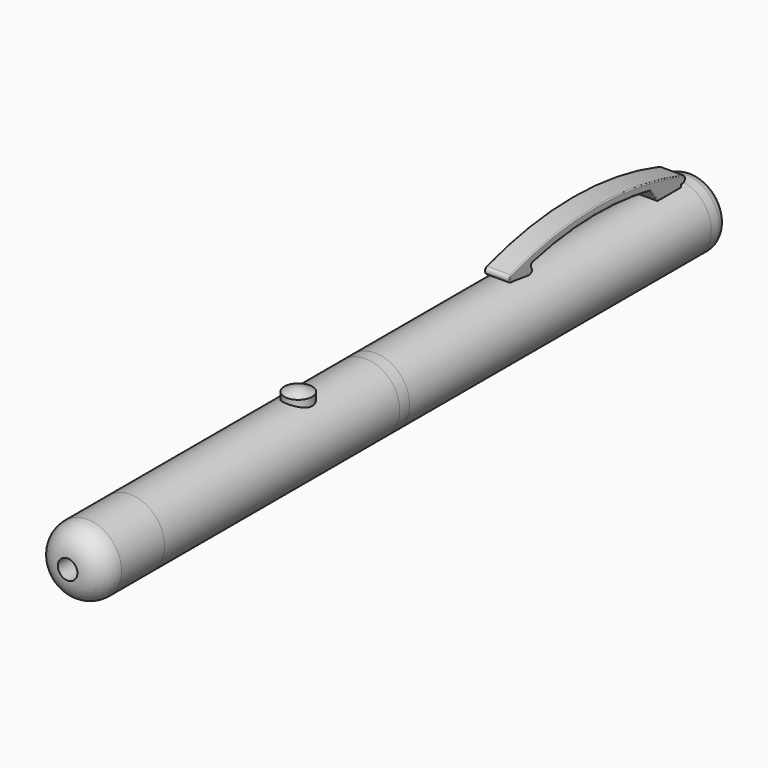
from build123d import *

# Parameters (mm, degrees)
F0_R           = 7
F1_DEPTH       = 4
F2_R           = 2
F3_DEPTH       = 77
F4_DEPTH       = 2.5
F5_DEPTH       = 60
F6_DEPTH       = 16
F7_R           = 5
F8_DEPTH       = 10
F10_DEPTH      = 2.5
F10_DEPTH_BACK = 2.5
F11_R          = 0.2


with BuildPart() as f1:
    # F0 (on Front) → F1 (new body)
    with BuildSketch(Plane.XZ):
        Circle(F0_R)
    extrude(amount=F1_DEPTH)

    # F2
    f2_edges = [f1.edges().sort_by_distance(p)[0] for p in [
        (-7, 0, 0),
    ]]
    fillet(f2_edges, radius=F2_R)


with BuildPart() as f3:
    # F3 (new): a face of the model
    f3_faces = [f1.part.faces().sort_by_distance(p)[0] for p in [
        (0, -4, 0),
    ]]
    extrude(f3_faces, amount=F3_DEPTH)


with BuildPart() as f4:
    # F4 (new): a face of the model
    f4_faces = [f3.part.faces().sort_by_distance(p)[0] for p in [
        (0, -81, 0),
    ]]
    extrude(f4_faces, amount=F4_DEPTH)


with BuildPart() as f5:
    # F5 (new): a face of the model
    f5_faces = [f4.part.faces().sort_by_distance(p)[0] for p in [
        (0, -83.5, 0),
    ]]
    extrude(f5_faces, amount=F5_DEPTH)


with BuildPart() as f6:
    # F6 (new): a face of the model
    f6_faces = [f5.part.faces().sort_by_distance(p)[0] for p in [
        (0, -143.5, 0),
    ]]
    extrude(f6_faces, amount=F6_DEPTH)

    # F7
    f7_edges = [f6.edges().sort_by_distance(p)[0] for p in [
        (-7, -159.5, 0),
    ]]
    fillet(f7_edges, radius=F7_R)

    # F8 (cut): a face of the model
    f8_faces = [f6.faces().sort_by_distance(p)[0] for p in [
        (0, -159.5, 0),
    ]]
    extrude(f8_faces, amount=-F8_DEPTH, mode=Mode.SUBTRACT)


with BuildPart() as f10:
    # F9 (on Right) → F10 (new body, two sides)
    with BuildSketch(Plane.YZ) as f10_sk:
        with BuildLine():
            ThreePointArc((-5.9654911839, 7.5740554156), (-5.0197732997, 8.0542821159), (-5.5, 9))
            ThreePointArc((-5.5, 9), (-27.5, 12.5), (-49.5, 9))
            ThreePointArc((-49.5, 9), (-49.9802267003, 8.0542821159), (-49.0345088161, 7.5740554156))
            Line((-49.0345088161, 7.5740554156), (-44.8684313642, 7.0068558528))
            ThreePointArc((-44.8684313642, 7.0068558528), (-44.1123799471, 7.3844327142), (-44.1877897806, 8.2261520193))
            ThreePointArc((-44.1877897806, 8.2261520193), (-44.2757766406, 8.7018356298), (-43.9197904076, 9.0293877428))
            ThreePointArc((-43.9197904076, 9.0293877428), (-28.9404687163, 10.9850476419), (-13.8928819069, 9.6528257448))
            Line((-13.8928819069, 9.6528257448), (-11.9654911839, 7))
            Line((-11.9654911839, 7), (-5.9654911839, 7))
            Line((-5.9654911839, 7), (-5.9654911839, 7.5740554156))
        make_face()
    extrude(amount=F10_DEPTH)
    extrude(f10_sk.sketch, amount=-F10_DEPTH_BACK)

    # F11
    f11_edges = [f10.edges().sort_by_distance(p)[0] for p in [
        (2.5, -5.019773, 8.054282),
        (2.5, -27.5, 12.5),
        (2.5, -49.980227, 8.054282),
        (2.5, -46.95147, 7.290456),
        (2.5, -44.11238, 7.384433),
        (2.5, -44.275777, 8.701836),
        (2.5, -28.940469, 10.985048),
        (2.5, -12.929187, 8.326413),
        (2.5, -8.965491, 7),
        (2.5, -5.965491, 7.287028),
        (-2.5, -5.019773, 8.054282),
        (-2.5, -27.5, 12.5),
        (-2.5, -49.980227, 8.054282),
        (-2.5, -46.95147, 7.290456),
        (-2.5, -44.11238, 7.384433),
        (-2.5, -44.275777, 8.701836),
        (-2.5, -28.940469, 10.985048),
        (-2.5, -12.929187, 8.326413),
        (-2.5, -8.965491, 7),
        (-2.5, -5.965491, 7.287028),
    ]]
    fillet(f11_edges, radius=F11_R)


with BuildPart() as f13:
    # F12 (on Right) → F13 (revolve)
    with BuildSketch(Plane.YZ):
        with BuildLine():
            Line((-103.5, 8.03731), (-103.5, 5))
            Line((-103.5, 5), (-100.65, 5))
            Line((-100.65, 5), (-100.65, 8.9721514395))
            ThreePointArc((-100.65, 8.9721514395), (-102.1279850324, 8.6662632921), (-103.5, 8.03731))
        make_face()
    revolve(axis=Axis((0, -100.65, 6.9860757197), (0, 0, 1)))


solid = Compound([f1.part, f3.part, f4.part, f5.part, f6.part, f10.part, f13.part])
